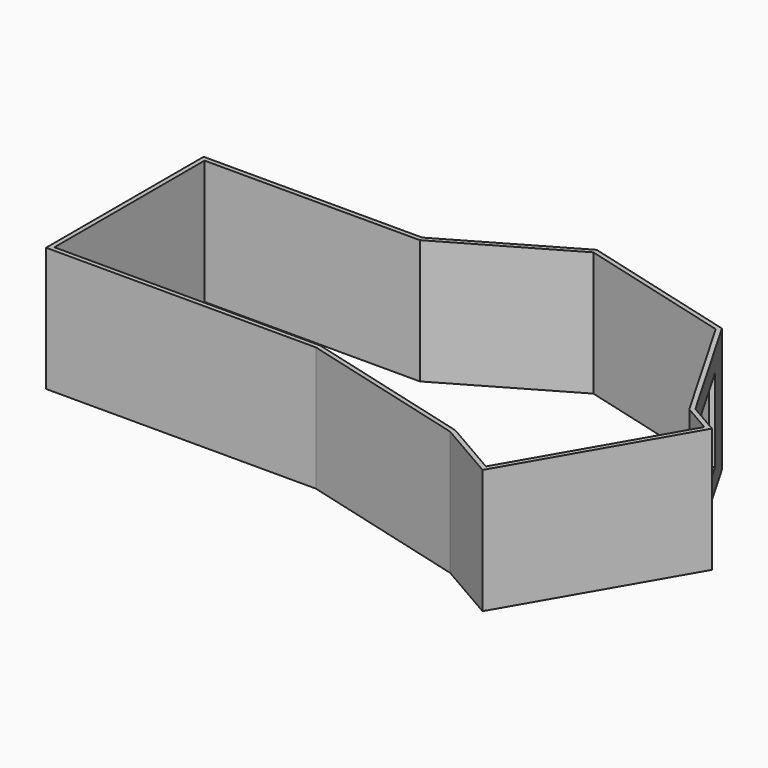
from build123d import *

# Parameters (mm, degrees)
F1_DEPTH = 2743.2
F3_DEPTH = 914.4
F4_W     = 1524
F4_H     = 1828.8
F5_DEPTH = 2477.1146604405
F7_DEPTH = 304.8


with BuildPart() as f1:
    # F0 (on Top) → F1 (new body)
    with BuildSketch(Plane.XY):
        Polygon((13068.2860719588, -2345.1207288389), (12387.9569858118, -1952.3325478144), (10869.2267558187, 678.1853735243), (7353.0942833877, 1620.3302299931), (4722.576362049, 101.6), (-101.6, 101.6), (-101.6, -4241.8), (5849.4684062853, -4241.8), (7544.9041272329, -4696.0906322468), (9619.5162102296, -5251.9812644936), (10947.3860719588, -6018.6272866117), align=None)
        Polygon((0, -4140.2), (0, 0), (4749.8, 0), (7367.4483854788, 1511.3), (10802.2806237628, 590.9394756154), (12313.5806237628, -2026.7089098634), (12929.4978909343, -2382.3089098634), (10910.1978909343, -5879.8391055872), (9658.7323464395, -5157.3051365917), (7571.2001422153, -4597.9525682958), (5862.8443000402, -4140.2), align=None, mode=Mode.SUBTRACT)
    extrude(amount=F1_DEPTH)

    # F4 (on face) → F5 (cut, through all)
    with BuildSketch(Plane(origin=(8357.5947668131, 4825.2595883973, 0), x_dir=(0.5, -0.8660254038, 0), z_dir=(-0.8660254038, -0.5, 0))):
        with Locations((6400.6717138994, 1371.6)):
            Rectangle(F4_W, F4_H)
    extrude(amount=-F5_DEPTH, mode=Mode.SUBTRACT)


with BuildPart() as f3:
    # F2 (on face) → F3 (new body)
    with BuildSketch(Plane(origin=(0, 0, 0), x_dir=(1, 0, 0), z_dir=(0, 0, -1))):
        Polygon((12379.5717595311, 2064.8089098634), (12929.4978909343, 2382.3089098634), (10910.1978909343, 5879.8391055872), (10360.2717595311, 5562.3391055872), align=None)
    extrude(amount=-F3_DEPTH)


with BuildPart() as f7:
    # F6 (on face) → F7 (new body)
    with BuildSketch(Plane(origin=(0, 0, 0), x_dir=(1, 0, 0), z_dir=(0, 0, -1))):
        Polygon((6583.1315558282, 4333.2003885068), (6846.0917056524, 3351.8197489971), (9201.4052404756, 3982.9241085751), (8938.4450906515, 4964.3047480848), align=None)
    extrude(amount=-F7_DEPTH)


solid = Compound([f1.part, f3.part, f7.part])
